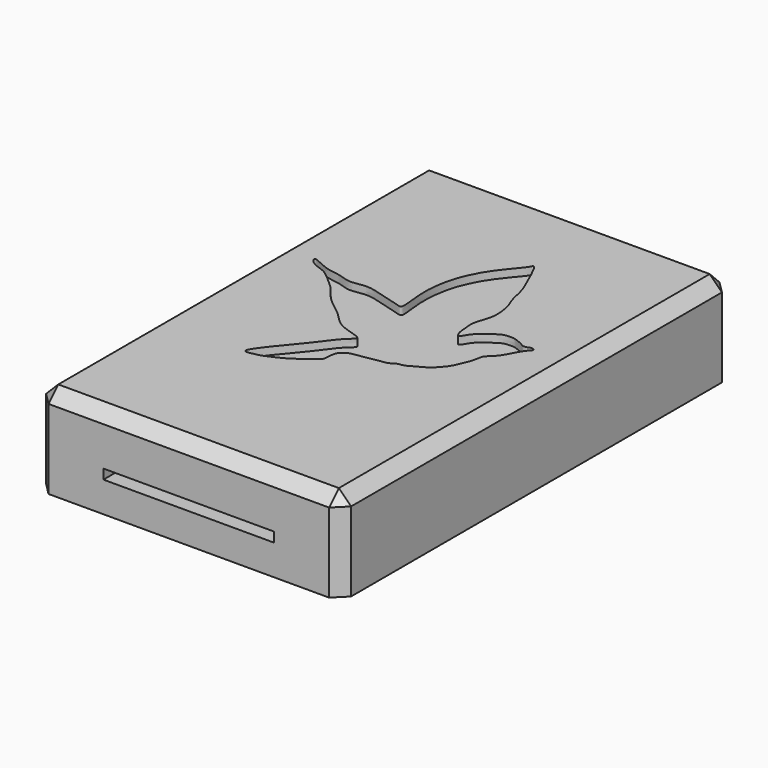
from build123d import *

# Parameters (mm, degrees)
F0_W     = 31.75
F0_H     = 50.8
F1_DEPTH = 9.525
F2_W     = 17.78
F2_H     = 1.016
F3_DEPTH = 58.42
F4_SIZE  = 1.27
F7_DEPTH = 0.7874


with BuildPart() as f1:
    # F0 (on Top) → F1 (new body)
    with BuildSketch(Plane.XY):
        Rectangle(F0_W, F0_H)
    extrude(amount=F1_DEPTH)

    # F2 (on face) → F3 (cut)
    with BuildSketch(Plane.XZ.offset(25.4)):
        with Locations((0, 3.683)):
            Rectangle(F2_W, F2_H)
    extrude(amount=-F3_DEPTH, mode=Mode.SUBTRACT)

    # F4
    f4_edges = [f1.edges().sort_by_distance(p)[0] for p in [
        (-15.875, 0, 9.525),
        (15.875, 0, 9.525),
        (0, -25.4, 9.525),
        (0, 25.4, 9.525),
        (-15.875, -25.4, 4.7625),
        (-15.875, 25.4, 4.7625),
        (15.875, 25.4, 4.7625),
        (15.875, -25.4, 4.7625),
    ]]
    chamfer(f4_edges, length=F4_SIZE)

    # F6 (on face) → F7 (cut)
    with BuildSketch(Plane.XY.offset(9.525)):
        with BuildLine():
            add(Edge.make_bspline(
                [(-6.4422910614, -9.992572479), (-6.576387638, -9.5277504866), (-2.9682513045, -5.5271485494), (-1.6230370241, -3.3267226029), (-0.1391517651, -2.3837543589), (-3.2745475931, -1.8910386002), (-4.4465516447, -0.1797364285), (-6.7888228815, 1.3070519976), (-7.888095117, 3.0827671512), (-9.4719419101, 4.3360710627), (-10.3052427191, 5.0482783915), (-11.7938524336, 5.3782417952), (-12.4842332356, 6.5829203), (-10.32925606, 5.2604715213), (-8.8451225007, 5.3133712001), (-7.5041527627, 4.6355935651), (-5.7727147566, 5.1814768448), (-4.0784426049, 4.6283461923), (-1.9873135315, 4.0916530706), (-1.108705884, 3.7615835829), (-1.6486852677, 6.5590375218), (-1.4710237672, 8.7687761974), (-1.0661623991, 10.7075732038), (-0.0610322166, 12.855636179), (1.2394716743, 14.6101225048), (2.3332163777, 15.7965761736), (2.5641123266, 16.4961779341), (3.252212115, 15.2178296727), (3.8540014355, 13.7730672833), (4.5585807656, 12.2961361883), (4.8257092414, 10.5291786991), (5.4097550677, 9.4613192433), (5.6340869151, 7.5627733225), (5.3266594346, 6.4884408338), (4.8950565869, 5.3286938068), (5.0601967769, 4.3396482601), (5.041123295, 3.5576924459), (5.4972037108, 2.4843281805), (5.9602740046, 3.7655404276), (7.1142399283, 4.6168015862), (8.0528024254, 5.3075552814), (8.7220878624, 5.3658636167), (9.3004070886, 5.380882436), (9.765063634, 5.1626351357), (10.2212334129, 5.0276867702), (10.521522363, 4.8066763864), (10.6884480245, 4.7128941565), (11.0688814513, 4.7603953024), (11.2323128826, 4.8813015119), (11.4523118748, 4.9065218961), (11.6408865133, 4.8752991874), (11.7926899892, 4.7857749875), (11.750485731, 4.6303349314), (11.6017892672, 4.4808231583), (11.4819118772, 4.3517434996), (11.3218017, 4.1565276582), (11.0066595601, 3.657677632), (10.8380601263, 3.3525955918), (10.6583433698, 2.933851586), (10.4502325895, 2.6481420558), (10.2539582326, 2.2588087396), (9.8756355327, 1.8550879004), (9.6252045102, 1.6491392204), (9.4701910215, 1.4534911373), (9.2726879661, 1.3463737098), (9.2265213781, 0.9109138219), (9.0874966435, 0.3398509189), (8.9620205457, -0.1310281139), (8.7310528775, -0.6459707167), (8.5089153347, -1.2188165983), (8.2716856279, -1.660544323), (7.7650531821, -2.3433500022), (7.058572815, -3.0316958873), (6.2786373328, -3.3954442295), (5.4932410272, -3.9034684174), (4.9521468897, -4.0406062951), (4.5835422446, -4.0413084885), (3.9631062689, -4.5319073147), (3.4102105666, -4.5287631488), (2.7699499357, -4.6692566402), (2.0767651322, -4.7850268217), (1.4604520985, -4.8904421235), (0.8279800508, -5.0195910317), (0.4250010726, -5.0308740722), (-0.1703625544, -5.390322009), (-0.4112720451, -5.780687892), (-0.5018080947, -6.2536290481), (-0.5456870856, -6.6366625746), (-0.5362555398, -6.9175416952), (-0.6106373398, -7.3195509206), (-1.2240352375, -7.6132252976), (-1.8316007812, -8.1769049773), (-2.9486193154, -8.9853873298), (-3.9487797942, -9.4402211085), (-4.9500394796, -9.9030628486), (-5.7487292428, -10.0484224765), (-6.397083294, -10.1492771843), (-6.4422910614, -9.992572479)],
                knots=[0, 0, 0, 0, 0.0259583215, 0.0463470715, 0.0567251674, 0.0738079829, 0.0907844627, 0.1091718607, 0.1256889827, 0.1413976537, 0.1533148285, 0.1673981773, 0.17647171, 0.1915663411, 0.2062111205, 0.2194305564, 0.2340371558, 0.2494254623, 0.2662405005, 0.2741870684, 0.2914307839, 0.3091818467, 0.3248382765, 0.3421461096, 0.3591987917, 0.37359296, 0.3806487222, 0.3923027758, 0.4071889257, 0.4216976763, 0.4365182631, 0.4491655771, 0.4644212141, 0.4765478409, 0.4888771884, 0.4999804433, 0.5105377457, 0.5201314395, 0.5307861511, 0.5449434096, 0.5569882646, 0.5660330692, 0.5744812832, 0.5825287377, 0.5903862073, 0.5971191632, 0.602028747, 0.6087917991, 0.6139450483, 0.6191009197, 0.6241252147, 0.6284637057, 0.6325603162, 0.6377614234, 0.6424385646, 0.6481191834, 0.6567479492, 0.6636575486, 0.671125053, 0.6778457736, 0.6853132107, 0.6937265181, 0.7002034218, 0.7057032178, 0.7107202105, 0.7179400004, 0.7267299464, 0.7346319678, 0.7431207361, 0.7519146763, 0.7598931863, 0.7702511207, 0.7814694511, 0.7920526642, 0.8029761348, 0.8112001577, 0.8179276915, 0.8276426626, 0.836041303, 0.8451293318, 0.8546194381, 0.8636840382, 0.872611968, 0.8798430239, 0.8889941392, 0.8966487669, 0.9044270279, 0.9114121696, 0.9173799068, 0.9241469938, 0.9330649947, 0.9435250122, 0.9567341565, 0.9687796228, 0.9804435568, 0.991248712, 1, 1, 1, 1], degree=3))
        make_face()
    extrude(amount=-F7_DEPTH, mode=Mode.SUBTRACT)


solid = f1.part
